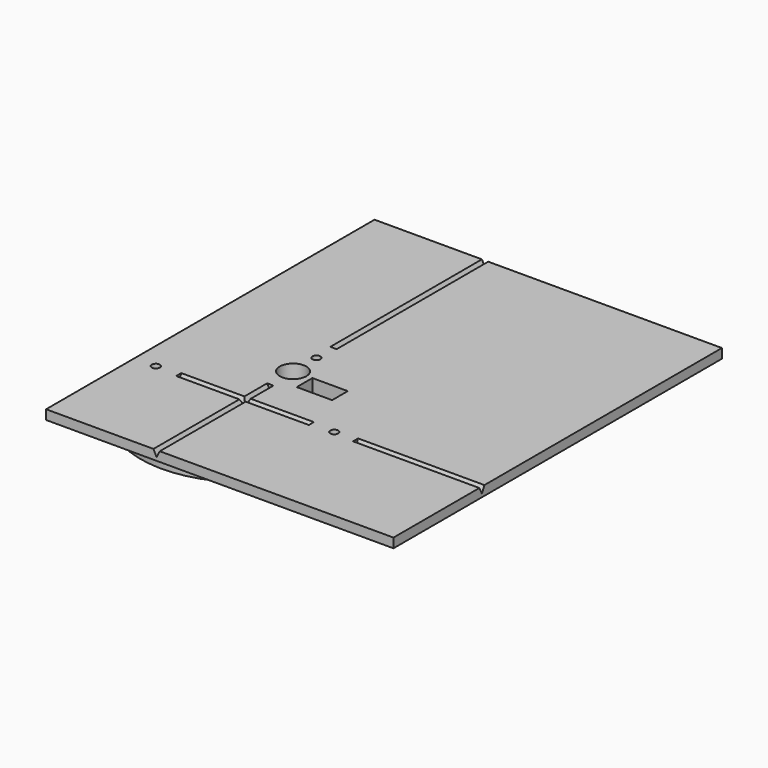
from build123d import *

# Parameters (mm, degrees)
F0_R      = 1
F0_R_2    = 1.25
F0_R_3    = 4.2
F0_R_4    = 1.275
F0_W      = 11.2
F0_H      = 6.2
F1_DEPTH  = 3
F0_W_2    = 110
F0_H_2    = 130
F2_DEPTH  = 3
F3_DEPTH  = 6
F5_DEPTH  = 45
F7_DEPTH  = 60
F9_DEPTH  = 40
F11_DEPTH = 21


with BuildPart() as f1:
    # F0 (on Top) → F1 (new body)
    with BuildSketch(Plane.XY):
        with BuildLine():
            ThreePointArc((26.3367733861, -20), (31.3415301151, -10.5514985873), (33.0700110734, 0))
            ThreePointArc((33.0700110734, 0), (14.7007722744, 29.6228446799), (-20, 26.3367733861))
            Line((-20, 26.3367733861), (-20, -20))
            Line((-20, -20), (26.3367733861, -20))
        make_face()
        with Locations((-15, 3.4738e-06)):
            Circle(F0_R, mode=Mode.SUBTRACT)
        Circle(F0_R_2, mode=Mode.SUBTRACT)
        with Locations((-7.68e-08, 19)):
            Circle(F0_R_3, mode=Mode.SUBTRACT)
        with Locations((0, 28.25)):
            Circle(F0_R_4, mode=Mode.SUBTRACT)
        with Locations((11.580758131, 16.0824482103)):
            Rectangle(F0_W, F0_H, mode=Mode.SUBTRACT)
        with Locations((28.25, 0)):
            Circle(F0_R_4, mode=Mode.SUBTRACT)
        with BuildLine():
            Line((-20, -20), (-20, 26.3367733861))
            ThreePointArc((-20, 26.3367733861), (-23.3840290839, -23.3840290839), (26.3367733861, -20))
            Line((26.3367733861, -20), (-20, -20))
        make_face()
        with Locations((-28.25, 0)):
            Circle(F0_R_4, mode=Mode.SUBTRACT)
    extrude(amount=-F1_DEPTH)

    # F0 (on Top) → F2 (join)
    with BuildSketch(Plane.XY):
        with Locations((20, 30)):
            Rectangle(F0_W_2, F0_H_2)
        with BuildLine():
            ThreePointArc((26.3367733861, -20), (-23.3840290839, -23.3840290839), (-20, 26.3367733861))
            Line((-20, 26.3367733861), (-20, 80))
            Line((-20, 80), (60, 80))
            Line((60, 80), (60, -20))
            Line((60, -20), (26.3367733861, -20))
        make_face(mode=Mode.SUBTRACT)
        with BuildLine():
            ThreePointArc((26.3367733861, -20), (31.3415301151, -10.5514985873), (33.0700110734, 0))
            ThreePointArc((33.0700110734, 0), (14.7007722744, 29.6228446799), (-20, 26.3367733861))
            Line((-20, 26.3367733861), (-20, -20))
            Line((-20, -20), (26.3367733861, -20))
        make_face()
        with Locations((-15, 3.4738e-06)):
            Circle(F0_R, mode=Mode.SUBTRACT)
        Circle(F0_R_2, mode=Mode.SUBTRACT)
        with Locations((-7.68e-08, 19)):
            Circle(F0_R_3, mode=Mode.SUBTRACT)
        with Locations((0, 28.25)):
            Circle(F0_R_4, mode=Mode.SUBTRACT)
        with Locations((11.580758131, 16.0824482103)):
            Rectangle(F0_W, F0_H, mode=Mode.SUBTRACT)
        with Locations((28.25, 0)):
            Circle(F0_R_4, mode=Mode.SUBTRACT)
        with BuildLine():
            Line((-20, -20), (-20, 26.3367733861))
            ThreePointArc((-20, 26.3367733861), (-23.3840290839, -23.3840290839), (26.3367733861, -20))
            Line((26.3367733861, -20), (-20, -20))
        make_face()
        with Locations((-28.25, 0)):
            Circle(F0_R_4, mode=Mode.SUBTRACT)
        with BuildLine():
            ThreePointArc((-20, 26.3367733861), (14.7007722744, 29.6228446799), (33.0700110734, 0))
            ThreePointArc((33.0700110734, 0), (31.3415301151, -10.5514985873), (26.3367733861, -20))
            Line((26.3367733861, -20), (60, -20))
            Line((60, -20), (60, 80))
            Line((60, 80), (-20, 80))
            Line((-20, 80), (-20, 26.3367733861))
        make_face()
        with Locations((-15, 3.4738e-06)):
            Circle(F0_R)
        Circle(F0_R_2)
    extrude(amount=F2_DEPTH)

    # F0 (on Top) → F3 (join)
    with BuildSketch(Plane.XY):
        with Locations((-15, 3.4738e-06)):
            Circle(F0_R)
    extrude(amount=-F3_DEPTH)

    # F4 (on face) → F5 (cut)
    with BuildSketch(Plane.XZ.offset(35)):
        Polygon((1, 3), (-1, 3), (0, 1), align=None)
    extrude(amount=-F5_DEPTH, mode=Mode.SUBTRACT)

    # F6 (on face) → F7 (cut)
    with BuildSketch(Plane(origin=(0, 95, 0), x_dir=(-1, 0, 0), z_dir=(0, 1, 0))):
        Polygon((-1, 3), (0, 1), (1, 3), align=None)
    extrude(amount=-F7_DEPTH, mode=Mode.SUBTRACT)

    # F8 (on face) → F9 (cut)
    with BuildSketch(Plane.YZ.offset(75)):
        Polygon((1, 3), (-1, 3), (0, 1), align=None)
    extrude(amount=-F9_DEPTH, mode=Mode.SUBTRACT)

    # F10 (on Right) → F11 (cut, symmetric)
    with BuildSketch(Plane.YZ):
        Polygon((-1, 3), (0, 1), (1, 3), align=None)
    extrude(amount=F11_DEPTH, both=True, mode=Mode.SUBTRACT)


solid = f1.part
